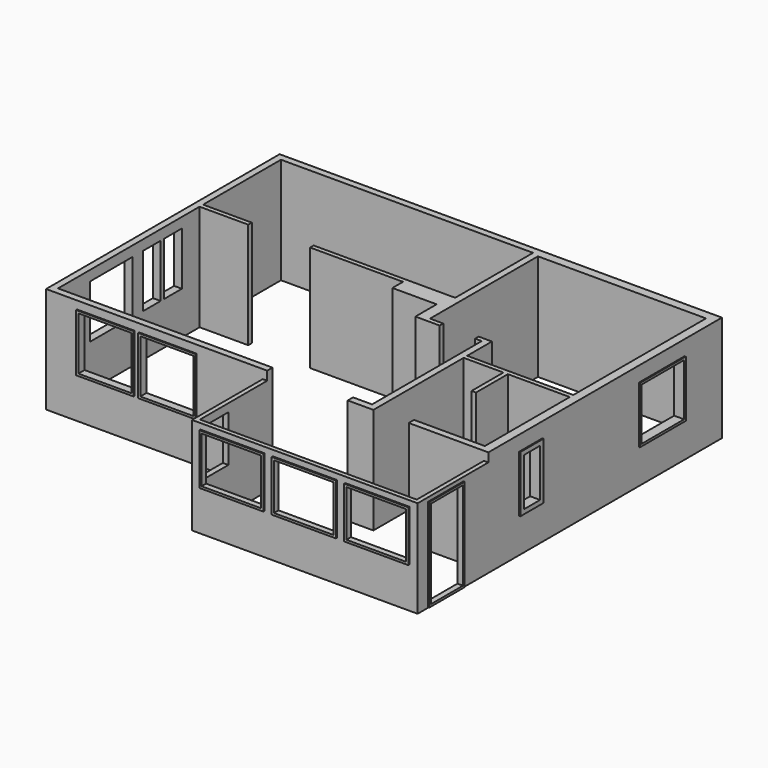
from build123d import *

# Parameters (mm, degrees)
F1_DEPTH  = 2400
F3_DEPTH  = 2200
F4_W      = 1450
F4_H      = 1150
F5_DEPTH  = 30
F6_W      = 1350
F6_H      = 1050
F7_DEPTH  = 130
F8_W      = 1000
F8_H      = 2100
F9_DEPTH  = 25
F10_W     = 900
F10_H     = 2000
F11_DEPTH = 125
F12_W     = 750
F12_H     = 1150
F13_DEPTH = 25
F14_W     = 650
F14_H     = 1050
F15_DEPTH = 125
F16_W     = 660
F16_H     = 1280
F17_DEPTH = 25
F18_W     = 460
F18_H     = 1080
F19_DEPTH = 225
F20_W     = 1300
F20_H     = 1280
F21_DEPTH = 25
F22_W     = 1200
F22_H     = 1180
F23_DEPTH = 225
F24_W     = 1300
F24_H     = 1300
F25_DEPTH = 25
F26_W     = 1200
F26_H     = 1200
F27_DEPTH = 175
F28_W     = 1300
F28_H     = 1300
F28_W_2   = 900
F28_H_2   = 1000
F29_DEPTH = 25
F30_W     = 1300
F30_H     = 1300
F30_W_2   = 1200
F30_H_2   = 2220
F31_DEPTH = 25
F32_W     = 1200
F32_H     = 1200
F32_W_2   = 500
F33_DEPTH = 175


with BuildPart() as f1:
    # F0 (on Top) → F1 (new body)
    with BuildSketch(Plane.XY):
        Polygon((0, 6600), (0, 0), (5000, 0), (5000, 150), (150, 150), (150, 4150), (1250, 4150), (1250, 4250), (150, 4250), (150, 6450), (5850, 6450), (5850, 4250), (2650, 4250), (2650, 4150), (4750, 4150), (4750, 3850), (5750, 3850), (5750, 3250), (6300, 3250), (6300, 3350), (6000, 3350), (6000, 6400), (9800, 6400), (9800, 2650), (7400, 2650), (7400, 3350), (7100, 3350), (7100, 3250), (7250, 3250), (7250, 150), (6820, 150), (6820, 0), (7400, 0), (7400, 2550), (8300, 2550), (8300, 1650), (8400, 1650), (8400, 2550), (9800, 2550), (9800, 150), (8200, 150), (8200, 0), (10000, 0), (10000, 6600), align=None)
    extrude(amount=F1_DEPTH)

    # F2 (on Top) → F3 (join)
    with BuildSketch(Plane.XY):
        Polygon((10000, -2000), (10000, 0), (9900, 0), (9900, -1900), (5000, -1900), (5000, 0), (4900, 0), (4900, -2000), align=None)
    extrude(amount=F3_DEPTH)

    # F4 (on face) → F5 (join)
    with BuildSketch(Plane.XZ.offset(2000)):
        with Locations((5812.5, 1495)):
            Rectangle(F4_W, F4_H)
        with Locations((7450, 1495)):
            Rectangle(F4_W, F4_H)
        with Locations((9087.5, 1495)):
            Rectangle(F4_W, F4_H)
    extrude(amount=F5_DEPTH)

    # F6 (on face) → F7 (cut, through all)
    with BuildSketch(Plane.XZ.offset(2030)):
        with Locations((5812.5, 1495)):
            Rectangle(F6_W, F6_H)
        with Locations((7450, 1495)):
            Rectangle(F6_W, F6_H)
        with Locations((9087.5, 1495)):
            Rectangle(F6_W, F6_H)
    extrude(amount=-F7_DEPTH, mode=Mode.SUBTRACT)

    # F8 (on face) → F9 (join)
    with BuildSketch(Plane.YZ.offset(10000)):
        with Locations((-1200, 1060)):
            Rectangle(F8_W, F8_H)
    extrude(amount=F9_DEPTH)

    # F10 (on face) → F11 (cut)
    with BuildSketch(Plane.YZ.offset(10025)):
        with Locations((-1200, 1060)):
            Rectangle(F10_W, F10_H)
    extrude(amount=-F11_DEPTH, mode=Mode.SUBTRACT)

    # F12 (on face) → F13 (join)
    with BuildSketch(Plane(origin=(4900, 0, 0), x_dir=(0, -1, 0), z_dir=(-1, 0, 0))):
        with Locations((1425, 1495)):
            Rectangle(F12_W, F12_H)
    extrude(amount=F13_DEPTH)

    # F14 (on face) → F15 (cut, through all)
    with BuildSketch(Plane(origin=(4875, 0, 0), x_dir=(0, -1, 0), z_dir=(-1, 0, 0))):
        with Locations((1425, 1495)):
            Rectangle(F14_W, F14_H)
    extrude(amount=-F15_DEPTH, mode=Mode.SUBTRACT)

    # F16 (on face) → F17 (join)
    with BuildSketch(Plane.YZ.offset(10000)):
        with Locations((1200, 1420)):
            Rectangle(F16_W, F16_H)
    extrude(amount=F17_DEPTH)

    # F18 (on face) → F19 (cut, through all)
    with BuildSketch(Plane.YZ.offset(10025)):
        with Locations((1200, 1420)):
            Rectangle(F18_W, F18_H)
    extrude(amount=-F19_DEPTH, mode=Mode.SUBTRACT)

    # F20 (on face) → F21 (join)
    with BuildSketch(Plane.YZ.offset(10000)):
        with Locations((4900, 1420)):
            Rectangle(F20_W, F20_H)
    extrude(amount=F21_DEPTH)

    # F22 (on face) → F23 (cut, through all)
    with BuildSketch(Plane.YZ.offset(10025)):
        with Locations((4900, 1420)):
            Rectangle(F22_W, F22_H)
    extrude(amount=-F23_DEPTH, mode=Mode.SUBTRACT)

    # F24 (on face) → F25 (join)
    with BuildSketch(Plane.XZ):
        with Locations((2750, 1570)):
            Rectangle(F24_W, F24_H)
        with Locations((1350, 1570)):
            Rectangle(F24_W, F24_H)
    extrude(amount=F25_DEPTH)

    # F26 (on face) → F27 (cut, through all)
    with BuildSketch(Plane.XZ.offset(25)):
        with Locations((2750, 1570)):
            Rectangle(F26_W, F26_H)
        with Locations((1350, 1570)):
            Rectangle(F26_W, F26_H)
    extrude(amount=-F27_DEPTH, mode=Mode.SUBTRACT)

    # F28 (on face) → F29 (join)
    with BuildSketch(Plane(origin=(0, 6600, 0), x_dir=(-1, 0, 0), z_dir=(0, 1, 0))):
        with Locations((-1450, 1570)):
            Rectangle(F28_W, F28_H)
        with Locations((-3950, 1720)):
            Rectangle(F28_W_2, F28_H_2)
        with Locations((-3950, 1720)):
            Rectangle(F28_W_2, F28_H_2)
    extrude(amount=F29_DEPTH)

    # F30 (on face) → F31 (join)
    with BuildSketch(Plane(origin=(0, 0, 0), x_dir=(0, -1, 0), z_dir=(-1, 0, 0))):
        with Locations((-1650, 1570)):
            Rectangle(F30_W, F30_H)
        with Locations((-3100, 1110)):
            Rectangle(F30_W_2, F30_H_2)
    extrude(amount=F31_DEPTH)

    # F32 (on face) → F33 (cut, through all)
    with BuildSketch(Plane(origin=(-25, 0, 0), x_dir=(0, -1, 0), z_dir=(-1, 0, 0))):
        with Locations((-1650, 1570)):
            Rectangle(F32_W, F32_H)
        with Locations((-2800, 1570)):
            Rectangle(F32_W_2, F32_H)
        with Locations((-3400, 1570)):
            Rectangle(F32_W_2, F32_H)
    extrude(amount=-F33_DEPTH, mode=Mode.SUBTRACT)


solid = f1.part
